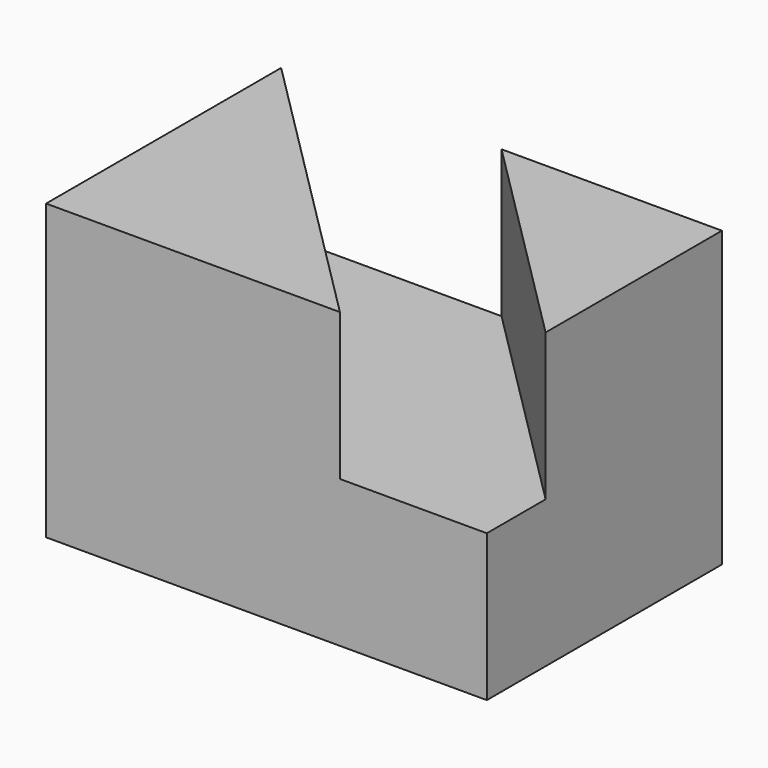
from build123d import *

# Parameters (mm, degrees)
F0_W     = 38.1
F0_H     = 25.4
F2_DEPTH = 25.4
F3_DEPTH = 25.4
F4_W     = 38.1
F4_H     = 12.7
F5_DEPTH = 25.4


with BuildPart() as f2:
    # F0 (on Front) → F2 (new body)
    with BuildSketch(Plane.XZ):
        with Locations((19.05, 12.7)):
            Rectangle(F0_W, F0_H)
    extrude(amount=-F2_DEPTH)

    # F1 (on Top) → F3 (cut)
    with BuildSketch(Plane.XY):
        Polygon((0, 25.4), (25.4, 0), (38.1, 0), (38.1, 6.35), (19.05, 25.4), align=None)
    extrude(amount=F3_DEPTH, mode=Mode.SUBTRACT)

    # F4 (on Front) → F5 (join)
    with BuildSketch(Plane.XZ):
        with Locations((19.05, 6.35)):
            Rectangle(F4_W, F4_H)
    extrude(amount=-F5_DEPTH)


solid = f2.part
